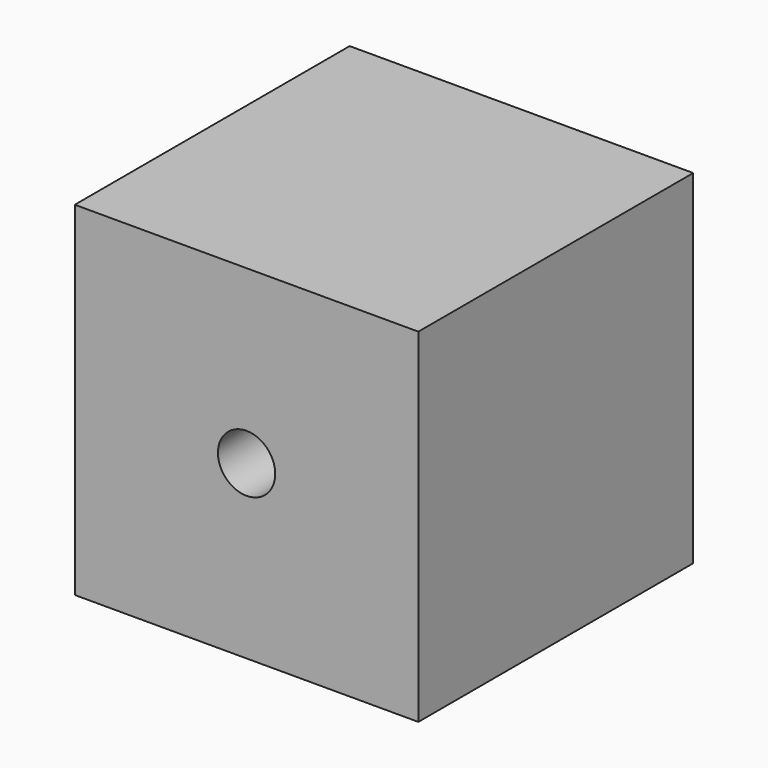
from build123d import *

# Parameters (mm, degrees)
F0_W     = 30
F0_H     = 30
F1_DEPTH = 30
F3_D     = 5
F3_DEPTH = 12
F3_TIP   = 1.5021515476


with BuildPart() as f1:
    # F0 (on Front) → F1 (new body)
    with BuildSketch(Plane.XZ):
        Rectangle(F0_W, F0_H)
    extrude(amount=F1_DEPTH)

    # F3
    with Locations(Plane.XZ.offset(30)):
        with Locations((0, 0)):
            Hole(F3_D / 2, depth=F3_DEPTH)
            with Locations((0, 0, -(F3_DEPTH + F3_TIP / 2))):  # 118° drill point
                Cone(0, F3_D / 2, F3_TIP, mode=Mode.SUBTRACT)


solid = f1.part
